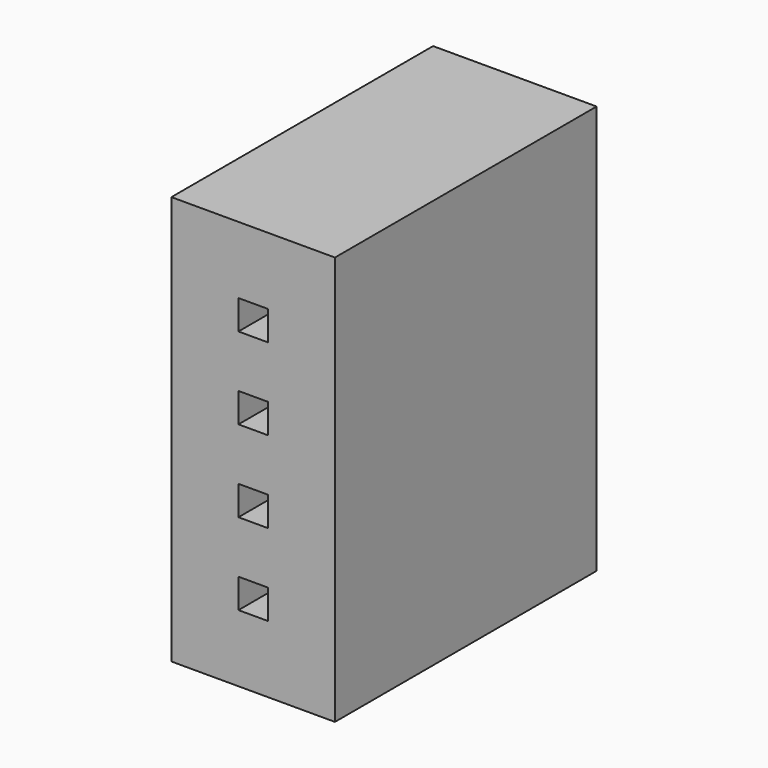
from build123d import *

# Parameters (mm, degrees)
F0_W     = 10
F0_H     = 20
F1_DEPTH = 25
F2_W     = 1.8
F2_H     = 1.8
F3_DEPTH = 19


with BuildPart() as f1:
    # F0 (on Top) → F1 (new body)
    with BuildSketch(Plane.XY):
        Rectangle(F0_W, F0_H)
    extrude(amount=F1_DEPTH)

    # F2 (on face) → F3 (cut)
    with BuildSketch(Plane.XZ.offset(10)):
        with Locations((0, 5)):
            Rectangle(F2_W, F2_H)
        with Locations((0, 10)):
            Rectangle(F2_W, F2_H)
        with Locations((0, 15)):
            Rectangle(F2_W, F2_H)
        with Locations((0, 20)):
            Rectangle(F2_W, F2_H)
    extrude(amount=-F3_DEPTH, mode=Mode.SUBTRACT)


solid = f1.part
